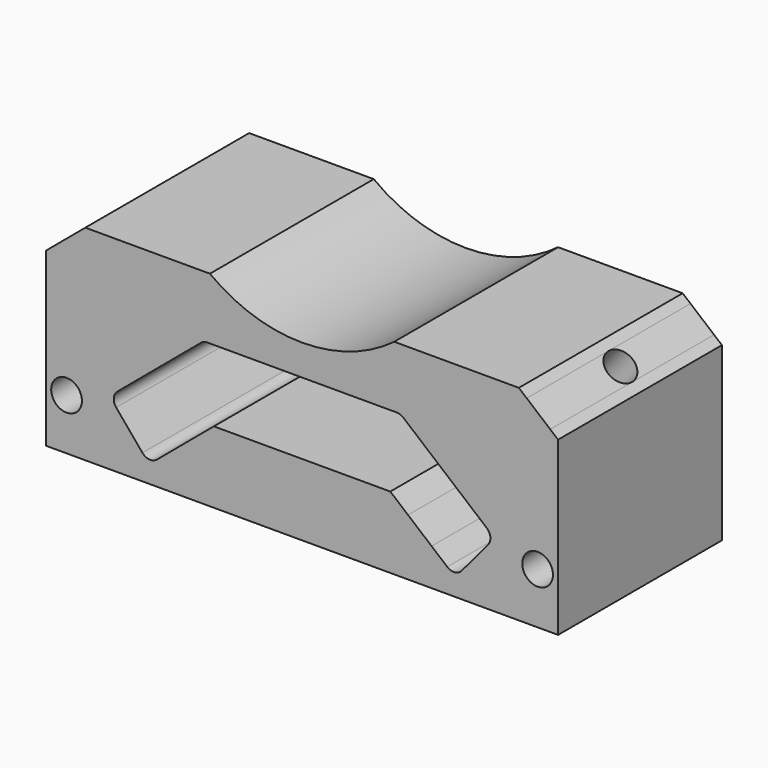
from build123d import *

# Parameters (mm, degrees)
F0_R     = 1.5
F1_DEPTH = 10
F2_R     = 1.5
F3_DEPTH = 44.9992499642
F4_R     = 1.5
F5_DEPTH = 44.9992499642


with BuildPart() as f1:
    # F0 (on Front) → F1 (new body, symmetric)
    with BuildSketch(Plane.XZ):
        with BuildLine():
            Line((9.6094143182, -10), (25, -10))
            Line((25, -10), (25, 6.7860619516))
            Line((25, 6.7860619516), (24.2339555569, 7.4288495613))
            Line((24.2339555569, 7.4288495613), (16.5025435388, -1.7850884872))
            Line((16.5025435388, -1.7850884872), (18.034632425, -3.0706637066))
            ThreePointArc((18.034632425, -3.0706637066), (18.3880395134, -3.7495524069), (18.1578892584, -4.4794957594))
            Line((18.1578892584, -4.4794957594), (15.5867388197, -7.5436735318))
            ThreePointArc((15.5867388197, -7.5436735318), (14.9078501193, -7.8970806202), (14.1779067669, -7.6669303653))
            Line((14.1779067669, -7.6669303653), (12.6458178806, -6.3813551459))
            Line((12.6458178806, -6.3813551459), (9.6094143182, -10))
        make_face()
        with Locations((23, -5)):
            Circle(F0_R, mode=Mode.SUBTRACT)
        Polygon((5.6931924502, -10), (9.6094143182, -10), (12.6458178806, -6.3813551459), (10.3476845513, -4.4529923168), align=None)
        Polygon((-5.6931924502, -10), (5.6931924502, -10), (10.3476845513, -4.4529923168), (8.6160757377, -3), (0, -3), (-8.6160757377, -3), (-10.3476845513, -4.4529923168), align=None)
        Polygon((16.5025435388, -1.7850884872), (24.2339555569, 7.4288495613), (21.9358222275, 9.3572123903), (14.2044102094, 0.1432743419), align=None)
        Polygon((-9.6094143182, -10), (-5.6931924502, -10), (-10.3476845513, -4.4529923168), (-12.6458178806, -6.3813551459), align=None)
        with BuildLine():
            Line((14.2044102094, 0.1432743419), (21.9358222275, 9.3572123903))
            Line((21.9358222275, 9.3572123903), (21.1697777844, 10))
            Line((21.1697777844, 10), (9, 10))
            ThreePointArc((9, 10), (4.7434164903, 7.7697505292), (0, 7))
            ThreePointArc((0, 7), (-4.7434164903, 7.7697505292), (-9, 10))
            Line((-9, 10), (-21.1697777844, 10))
            Line((-21.1697777844, 10), (-21.9358222275, 9.3572123903))
            Line((-21.9358222275, 9.3572123903), (-14.2044102094, 0.1432743419))
            Line((-14.2044102094, 0.1432743419), (-9.8869609261, 3.7660444431))
            ThreePointArc((-9.8869609261, 3.7660444431), (-9.5861934597, 3.9396926208), (-9.2441733164, 4))
            Line((-9.2441733164, 4), (0, 4))
            Line((0, 4), (9.2441733164, 4))
            ThreePointArc((9.2441733164, 4), (9.5861934597, 3.9396926208), (9.8869609261, 3.7660444431))
            Line((9.8869609261, 3.7660444431), (14.2044102094, 0.1432743419))
        make_face()
        with BuildLine():
            Line((-25, -10), (-9.6094143182, -10))
            Line((-9.6094143182, -10), (-12.6458178806, -6.3813551459))
            Line((-12.6458178806, -6.3813551459), (-14.1779067669, -7.6669303653))
            ThreePointArc((-14.1779067669, -7.6669303653), (-14.9078501193, -7.8970806202), (-15.5867388197, -7.5436735318))
            Line((-15.5867388197, -7.5436735318), (-18.1578892584, -4.4794957594))
            ThreePointArc((-18.1578892584, -4.4794957594), (-18.3880395134, -3.7495524069), (-18.034632425, -3.0706637066))
            Line((-18.034632425, -3.0706637066), (-16.5025435388, -1.7850884872))
            Line((-16.5025435388, -1.7850884872), (-24.2339555569, 7.4288495613))
            Line((-24.2339555569, 7.4288495613), (-25, 6.7860619516))
            Line((-25, 6.7860619516), (-25, -10))
        make_face()
        with Locations((-23, -5)):
            Circle(F0_R, mode=Mode.SUBTRACT)
        Polygon((-16.5025435388, -1.7850884872), (-14.2044102094, 0.1432743419), (-21.9358222275, 9.3572123903), (-24.2339555569, 7.4288495613), align=None)
    extrude(amount=F1_DEPTH, both=True)

    # F2 (on face) → F3 (cut, through all)
    with BuildSketch(Plane(origin=(-13.6708809903, 0, 16.2923215341), x_dir=(0.7660444431, 0, 0.6427876097), z_dir=(-0.6427876097, 0, 0.7660444431))):
        with Locations((-12.2891145369, 0)):
            Circle(F2_R)
    extrude(amount=-F3_DEPTH, mode=Mode.SUBTRACT)

    # F4 (on face) → F5 (cut, through all)
    with BuildSketch(Plane(origin=(13.6708809903, 0, 16.2923215341), x_dir=(0.7660444431, 0, -0.6427876097), z_dir=(0.6427876097, 0, 0.7660444431))):
        with Locations((12.2891145369, 0)):
            Circle(F4_R)
    extrude(amount=-F5_DEPTH, mode=Mode.SUBTRACT)


solid = f1.part
